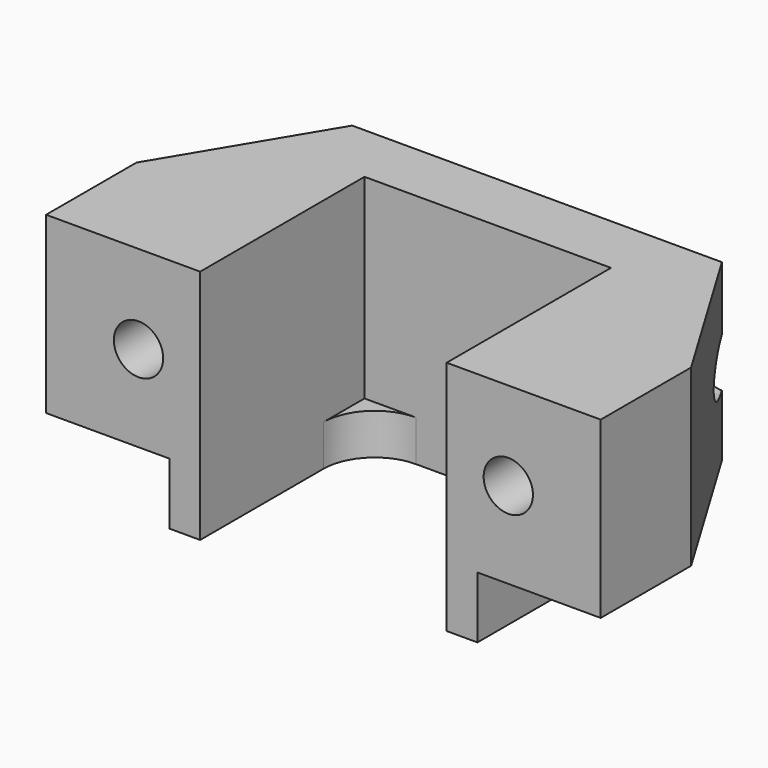
from build123d import *

# Parameters (mm, degrees)
F1_DEPTH = 11.5
F2_R     = 1.2
F3_DEPTH = 25
F4_R     = 2.5
F5_W     = 12
F5_H     = 9.5
F6_DEPTH = 10.001
F7_W     = 6
F7_H     = 3
F8_DEPTH = 13.001


with BuildPart() as f1:
    # F0 (on Top) → F1 (new body)
    with BuildSketch(Plane.XY):
        Polygon((-13.5, 5.5), (-13.5, 0), (-6, 0), (-6, 10), (6, 10), (6, 0), (13.5, 0), (13.5, 5.5), (9, 13), (-9, 13), align=None)
    extrude(amount=F1_DEPTH)

    # F2 (on face) → F3 (cut)
    with BuildSketch(Plane.XZ):
        with Locations((-9, 7.2)):
            Circle(F2_R)
        with Locations((9, 7.2)):
            Circle(F2_R)
    extrude(amount=-F3_DEPTH, mode=Mode.SUBTRACT)

    # F4
    f4_edges = [f1.edges().sort_by_distance(p)[0] for p in [
        (-6, 10, 5.75),
        (6, 10, 5.75),
    ]]
    fillet(f4_edges, radius=F4_R)

    # F5 (on face) → F6 (cut, through all)
    with BuildSketch(Plane.XZ.offset(-10)):
        with Locations((0, 6.75)):
            Rectangle(F5_W, F5_H)
    extrude(amount=F6_DEPTH, mode=Mode.SUBTRACT)

    # F7 (on face) → F8 (cut, through all)
    with BuildSketch(Plane.XZ):
        with Locations((-10.5, 1.5)):
            Rectangle(F7_W, F7_H)
        with Locations((10.5, 1.5)):
            Rectangle(F7_W, F7_H)
    extrude(amount=-F8_DEPTH, mode=Mode.SUBTRACT)


solid = f1.part
